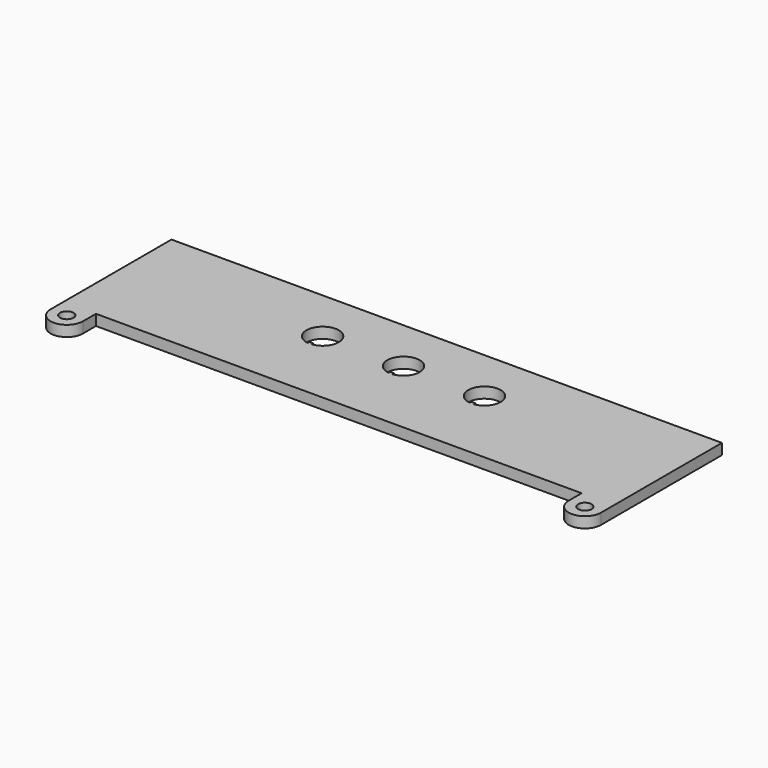
from build123d import *

# Parameters (mm, degrees)
F0_R     = 2.5
F1_DEPTH = 4


with BuildPart() as f1:
    # F0 (on Top) → F1 (new body)
    with BuildSketch(Plane.XY):
        with BuildLine():
            Line((102, 25), (-102, 25))
            Line((-102, 25), (-102, -25))
            Line((-102, -25), (-102, -31))
            ThreePointArc((-102, -31), (-96, -37), (-90, -31))
            Line((-90, -31), (-90, -25))
            Line((-90, -25), (90, -25))
            Line((90, -25), (90, -31))
            ThreePointArc((90, -31), (96, -37), (102, -31))
            Line((102, -31), (102, -25))
            Line((102, -25), (102, 25))
        make_face()
        with Locations((-96, -31)):
            Circle(F0_R, mode=Mode.SUBTRACT)
        with Locations((96, -31)):
            Circle(F0_R, mode=Mode.SUBTRACT)
        with BuildLine():
            ThreePointArc((-30.75, -0.95294), (-30, 11), (-29.25, -0.95294))
            Line((-29.25, -0.95294), (-29.25, -0.20294))
            Line((-29.25, -0.20294), (-30.75, -0.20294))
            Line((-30.75, -0.20294), (-30.75, -0.95294))
        make_face(mode=Mode.SUBTRACT)
        with BuildLine():
            ThreePointArc((-0.75, -0.95294), (-3.968627, 9.5), (6, 5))
            ThreePointArc((6, 5), (4.5, 1.031373), (0.75, -0.95294))
            ThreePointArc((0.75, -0.95294), (0, -1), (-0.75, -0.95294))
        make_face(mode=Mode.SUBTRACT)
        with BuildLine():
            ThreePointArc((29.25, -0.95294), (26.031373, 9.5), (36, 5))
            ThreePointArc((36, 5), (34.5, 1.031373), (30.75, -0.95294))
            ThreePointArc((30.75, -0.95294), (30, -1), (29.25, -0.95294))
        make_face(mode=Mode.SUBTRACT)
        with BuildLine():
            Line((-0.75, -0.20294), (-0.75, -0.95294))
            ThreePointArc((-0.75, -0.95294), (0, -1), (0.75, -0.95294))
            Line((0.75, -0.95294), (0.75, -0.20294))
            Line((0.75, -0.20294), (-0.75, -0.20294))
        make_face()
        with BuildLine():
            Line((29.25, -0.20294), (29.25, -0.95294))
            ThreePointArc((29.25, -0.95294), (30, -1), (30.75, -0.95294))
            Line((30.75, -0.95294), (30.75, -0.20294))
            Line((30.75, -0.20294), (29.25, -0.20294))
        make_face()
    extrude(amount=F1_DEPTH)


solid = f1.part
